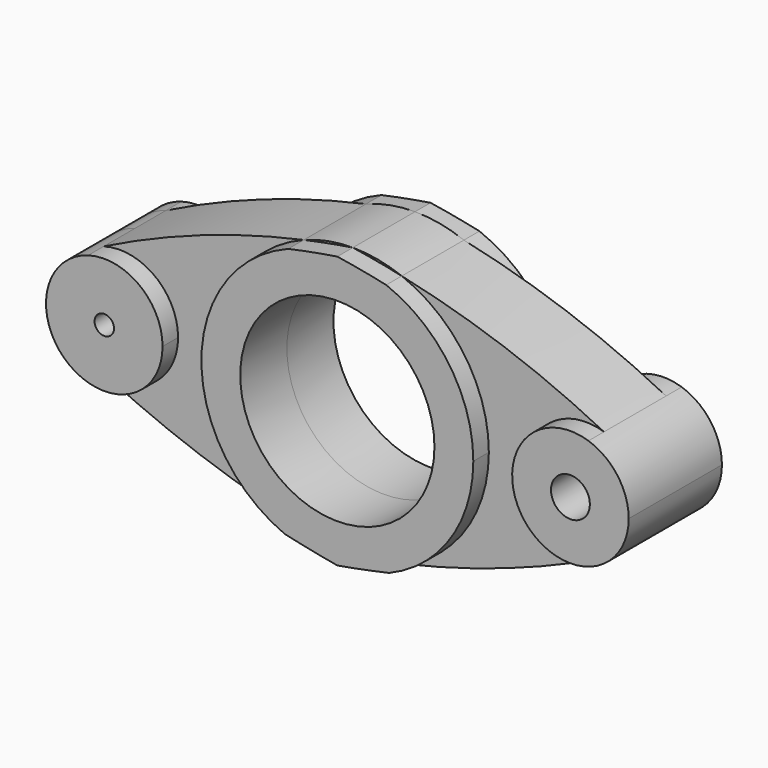
from build123d import *

# Parameters (mm, degrees)
F0_R          = 3.175
F0_R_2        = 1.5875
F1_DEPTH      = 6.35
F1_DEPTH_BACK = 6.35
F0_R_3        = 15.875
F2_DEPTH      = 9.525
F2_DEPTH_BACK = 9.525


with BuildPart() as f1:
    # F0 (on Front) → F1 (new body, two sides)
    with BuildSketch(Plane.XZ) as f1_sk:
        with BuildLine():
            ThreePointArc((7.988833, 20.739556), (18.323515, 12.577734), (22.225, 0))
            ThreePointArc((22.225, 0), (18.472933, -12.357239), (8.483595, -20.542133))
            ThreePointArc((8.483595, -20.542133), (25.28233, -15.682289), (41.413731, -8.929995))
            ThreePointArc((41.413731, -8.929995), (28.577003, -0.195336), (41.044752, 9.05837))
            ThreePointArc((41.044752, 9.05837), (24.886927, 15.946385), (7.988833, 20.739556))
        make_face()
        with BuildLine():
            ThreePointArc((0, 22.225), (4.005284, 21.540726), (7.988833, 20.739556))
            ThreePointArc((7.988833, 20.739556), (4.062881, 21.850483), (0, 22.225))
        make_face()
        with BuildLine():
            ThreePointArc((0, -22.225), (4.324449, -21.800224), (8.483595, -20.542133))
            ThreePointArc((8.483595, -20.542133), (4.253738, -21.443761), (0, -22.225))
        make_face()
        with BuildLine():
            ThreePointArc((-8.030667, 20.723393), (-4.026414, 21.533454), (0, 22.225))
            ThreePointArc((0, 22.225), (-4.084925, 21.846373), (-8.030667, 20.723393))
        make_face()
        with BuildLine():
            ThreePointArc((47.625, 0), (45.806309, 5.598074), (41.044752, 9.05837))
            ThreePointArc((41.044752, 9.05837), (28.577003, -0.195336), (41.413731, -8.929995))
            ThreePointArc((41.413731, -8.929995), (45.919492, -5.438857), (47.625, 0))
        make_face()
        with Locations((38.1, 0)):
            Circle(F0_R, mode=Mode.SUBTRACT)
        with BuildLine():
            ThreePointArc((-8.630772, -20.480732), (-4.402633, -21.784569), (0, -22.225))
            ThreePointArc((0, -22.225), (-4.327986, -21.415212), (-8.630772, -20.480732))
        make_face()
        with BuildLine():
            ThreePointArc((-8.630772, -20.480732), (-22.222643, 0.323655), (-8.030667, 20.723393))
            ThreePointArc((-8.030667, 20.723393), (-24.750865, 15.966198), (-40.743005, 9.150964))
            ThreePointArc((-40.743005, 9.150964), (-32.375011, 7.612498), (-28.575, 0))
            ThreePointArc((-28.575, 0), (-32.294478, -7.551261), (-40.548027, -9.205042))
            ThreePointArc((-40.548027, -9.205042), (-24.903434, -15.731802), (-8.630772, -20.480732))
        make_face()
        with BuildLine():
            ThreePointArc((-28.575, 0), (-32.375011, 7.612498), (-40.743005, 9.150964))
            ThreePointArc((-40.743005, 9.150964), (-47.624463, -0.101169), (-40.548027, -9.205042))
            ThreePointArc((-40.548027, -9.205042), (-32.294478, -7.551261), (-28.575, 0))
        make_face()
        with Locations((-38.1, 0)):
            Circle(F0_R_2, mode=Mode.SUBTRACT)
    extrude(amount=F1_DEPTH)
    extrude(f1_sk.sketch, amount=-F1_DEPTH_BACK)

    # F0 (on Front) → F2 (join, two sides)
    with BuildSketch(Plane.XZ) as f2_sk:
        with BuildLine():
            ThreePointArc((47.625, 0), (45.806309, 5.598074), (41.044752, 9.05837))
            ThreePointArc((41.044752, 9.05837), (28.577003, -0.195336), (41.413731, -8.929995))
            ThreePointArc((41.413731, -8.929995), (45.919492, -5.438857), (47.625, 0))
        make_face()
        with Locations((38.1, 0)):
            Circle(F0_R, mode=Mode.SUBTRACT)
        with BuildLine():
            ThreePointArc((-28.575, 0), (-32.375011, 7.612498), (-40.743005, 9.150964))
            ThreePointArc((-40.743005, 9.150964), (-47.624463, -0.101169), (-40.548027, -9.205042))
            ThreePointArc((-40.548027, -9.205042), (-32.294478, -7.551261), (-28.575, 0))
        make_face()
        with Locations((-38.1, 0)):
            Circle(F0_R_2, mode=Mode.SUBTRACT)
        with BuildLine():
            ThreePointArc((8.483595, -20.542133), (18.472933, -12.357239), (22.225, 0))
            ThreePointArc((22.225, 0), (18.323515, 12.577734), (7.988833, 20.739556))
            ThreePointArc((7.988833, 20.739556), (4.005284, 21.540726), (0, 22.225))
            ThreePointArc((0, 22.225), (-4.026414, 21.533454), (-8.030667, 20.723393))
            ThreePointArc((-8.030667, 20.723393), (-22.222643, 0.323655), (-8.630772, -20.480732))
            ThreePointArc((-8.630772, -20.480732), (-4.327986, -21.415212), (0, -22.225))
            ThreePointArc((0, -22.225), (4.253738, -21.443761), (8.483595, -20.542133))
        make_face()
        Circle(F0_R_3, mode=Mode.SUBTRACT)
    extrude(amount=F2_DEPTH)
    extrude(f2_sk.sketch, amount=-F2_DEPTH_BACK)


solid = f1.part
